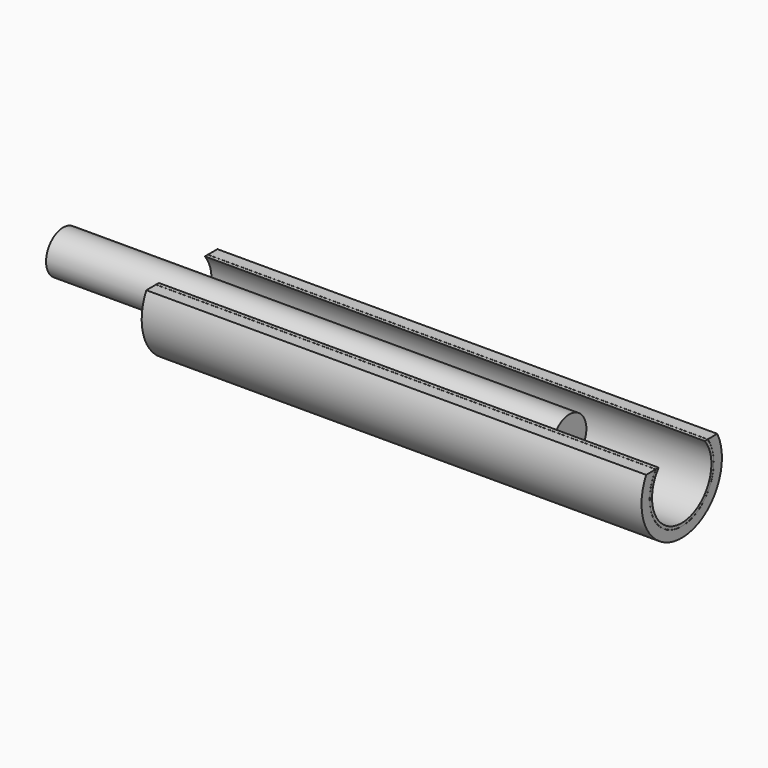
from build123d import *

# Parameters (mm, degrees)
F0_R           = 32.467339
F0_R_2         = 30.172731
F1_DEPTH       = 203.2
F1_DEPTH_BACK  = 203.2
F2_R           = 40.860562
F2_R_2         = 32.557761
F3_DEPTH       = 203.2
F3_DEPTH_BACK  = 203.2
F4_R           = 3.150683
F5_DEPTH       = 111.76
F5_DEPTH_BACK  = 299.72
F7_W           = 426.029071
F7_H           = 92.935704
F8_DEPTH       = 35.814
F9_R           = 17.391696
F10_DEPTH      = 111.76
F10_DEPTH_BACK = 299.72


with BuildPart() as f1:
    # F0 (on Right) → F1 (new body, two sides)
    with BuildSketch(Plane.YZ) as f1_sk:
        Circle(F0_R)
        Circle(F0_R_2, mode=Mode.SUBTRACT)
    extrude(amount=F1_DEPTH)
    extrude(f1_sk.sketch, amount=-F1_DEPTH_BACK)


with BuildPart() as f3:
    # F2 (on Right) → F3 (new body, two sides)
    with BuildSketch(Plane.YZ) as f3_sk:
        Circle(F2_R)
        Circle(F2_R_2, mode=Mode.SUBTRACT)
    extrude(amount=F3_DEPTH)
    extrude(f3_sk.sketch, amount=-F3_DEPTH_BACK)


with BuildPart() as f5:
    # F4 (on Right) → F5 (new body, two sides)
    with BuildSketch(Plane.YZ) as f5_sk:
        with Locations((-0.079018, 7.570568)):
            Circle(F4_R)
        with Locations((-0.079018, -6.994453)):
            Circle(F4_R)
    extrude(amount=F5_DEPTH)
    extrude(f5_sk.sketch, amount=-F5_DEPTH_BACK)


with BuildPart() as f8_tool:
    # F7 (on offset) → F8 (new body)
    with BuildSketch(Plane.XY.offset(19.05)):
        with Locations((-1.902603, -0.868738)):
            Rectangle(F7_W, F7_H)
    extrude(amount=F8_DEPTH)


with BuildPart() as f1_1:
    add(f1.part)

    # F8: cut by f8_tool
    add(f8_tool.part, mode=Mode.SUBTRACT)


with BuildPart() as f3_1:
    add(f3.part)

    # F8: cut by f8_tool
    add(f8_tool.part, mode=Mode.SUBTRACT)


with BuildPart() as f10:
    # F9 (on Right) → F10 (new body, two sides)
    with BuildSketch(Plane.YZ) as f10_sk:
        with Locations((0, 0.500688)):
            Circle(F9_R)
    extrude(amount=F10_DEPTH)
    extrude(f10_sk.sketch, amount=-F10_DEPTH_BACK)


solid = Compound([f5.part, f1_1.part, f3_1.part, f10.part])
